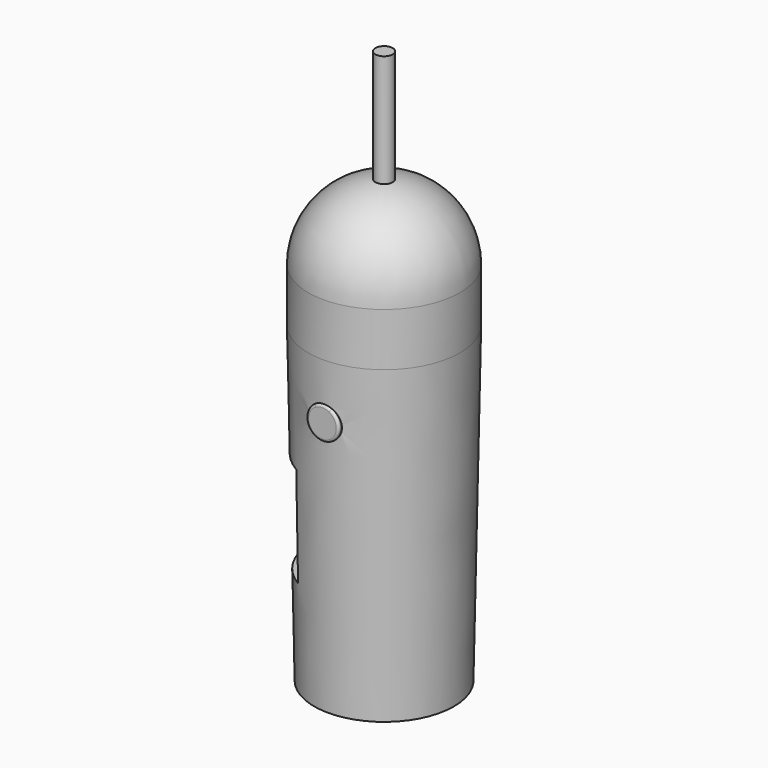
from build123d import *

# Parameters (mm, degrees)
F0_R      = 14.5
F2_R      = 15.75
F4_R      = 13.25
F5_DEPTH  = 4.3
F8_DEPTH  = 21
F9_R      = 3.375
F10_DEPTH = 16
F11_R     = 0.5
F12_R     = 15.75
F13_DEPTH = 11
F17_R     = 1.8
F18_DEPTH = 25


with BuildPart() as f3:
    # F0 (on Top) → F3 section 0
    with BuildSketch(Plane.XY):
        Circle(F0_R)
    # F2 (on offset) → F3 section 1
    with BuildSketch(Plane.XY.offset(65)):
        Circle(F2_R)
    loft()

    # F4 (on face) → F5 (cut)
    with BuildSketch(Plane(origin=(0, 0, 0), x_dir=(1, 0, 0), z_dir=(0, 0, -1))):
        Circle(F4_R)
    extrude(amount=-F5_DEPTH, mode=Mode.SUBTRACT)

    # F7 (on offset) → F8 (cut)
    with BuildSketch(Plane.XY.offset(20.5)):
        with BuildLine():
            Line((-7.605769, -16.440997), (-7.605769, -12.805873))
            Line((-7.605769, -12.805873), (-7.605769, -8.882979))
            ThreePointArc((-7.605769, -8.882979), (-11.694231, 0), (-7.605769, 8.882979))
            Line((-7.605769, 8.882979), (-7.605769, 12.805873))
            Line((-7.605769, 12.805873), (-7.605769, 17.916933))
            Line((-7.605769, 17.916933), (-23.547225, 17.916933))
            Line((-23.547225, 17.916933), (-23.547225, -16.440997))
            Line((-23.547225, -16.440997), (-7.605769, -16.440997))
        make_face()
    extrude(amount=F8_DEPTH, mode=Mode.SUBTRACT)

    # F9 (on Front) → F10 (join)
    with BuildSketch(Plane.XZ):
        with Locations((0, 53.5)):
            Circle(F9_R)
    extrude(amount=F10_DEPTH)

    # F11
    f11_edges = [f3.edges().sort_by_distance(p)[0] for p in [
        (-3.375, -16, 53.5),
    ]]
    fillet(f11_edges, radius=F11_R)

    # F12 (on face) → F13 (join)
    with BuildSketch(Plane.XY.offset(65)):
        Circle(F12_R)
    extrude(amount=F13_DEPTH)

    # F14 (on Right) → F15 (revolve)
    with BuildSketch(Plane.YZ):
        with BuildLine():
            Line((0, 76), (15.75, 76))
            ThreePointArc((15.75, 76), (11.136932, 87.136932), (0, 91.75))
            Line((0, 91.75), (0, 76))
        make_face()
    revolve(axis=Axis((0, 0, 83.875), (0, 0, 1)))

    # F17 (on offset) → F18 (join)
    with BuildSketch(Plane.XY.offset(90)):
        Circle(F17_R)
    extrude(amount=F18_DEPTH)


solid = f3.part
